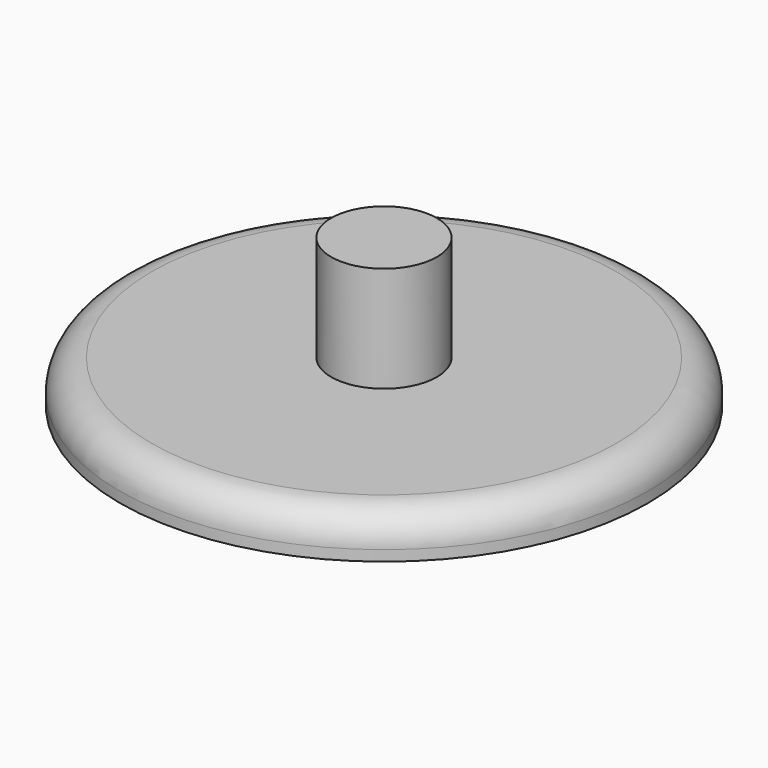
from build123d import *

# Parameters (mm, degrees)
SKETCH_R     = 125
PAD_DEPTH    = 20
SKETCH001_R  = 25
PAD001_DEPTH = 50
FILLET006_R  = 15


with BuildPart() as part:
    # Sketch → Pad (new body)
    with BuildSketch(Plane.XY):
        Circle(SKETCH_R)
    extrude(amount=PAD_DEPTH)

    # Sketch001 (on Face3 of Pad) → Pad001 (join)
    with BuildSketch(Plane.XY.offset(20)):
        Circle(SKETCH001_R)
    extrude(amount=PAD001_DEPTH)

    # Fillet006
    fillet006_edges = [part.edges().sort_by_distance(p)[0] for p in [
        (-125, 0, 20),
    ]]
    fillet(fillet006_edges, radius=FILLET006_R)


solid = part.part
